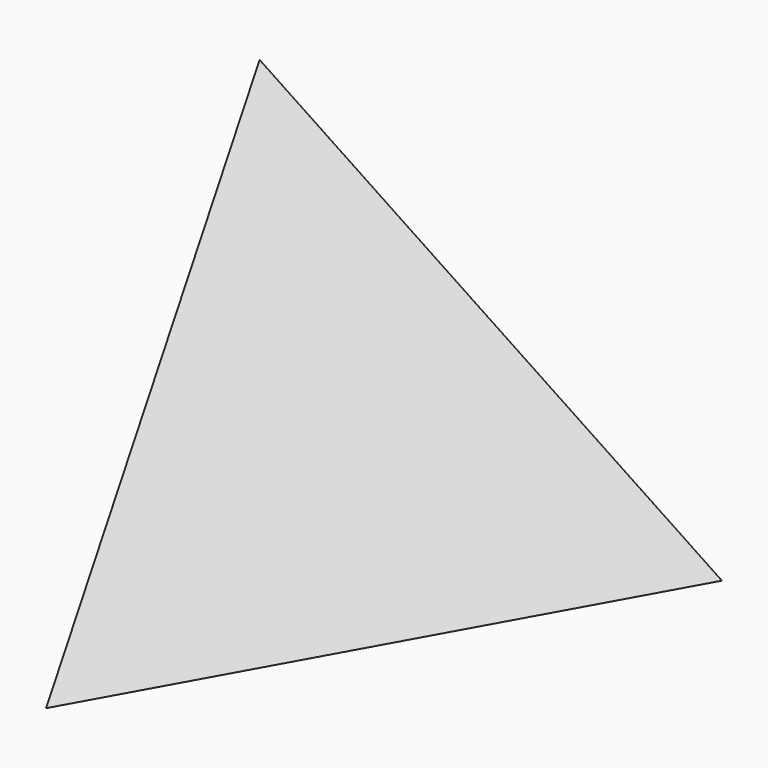
from build123d import *

# Parameters (mm, degrees)
F4_T = -0.762


with BuildPart() as f3:
    # F0 (on Right) → F3 section 0
    with BuildSketch(Plane.YZ, mode=Mode.PRIVATE) as f3_s0:
        Polygon((12.7, -7.3323484187), (0, 14.6646968374), (-12.7, -7.3323484187), align=None)
    loft([f3_s0.sketch, Vertex(21.997035, 0, 0)])

    # F4 (hollow: no face is removed)
    offset(amount=F4_T, mode=Mode.SUBTRACT)


solid = f3.part
